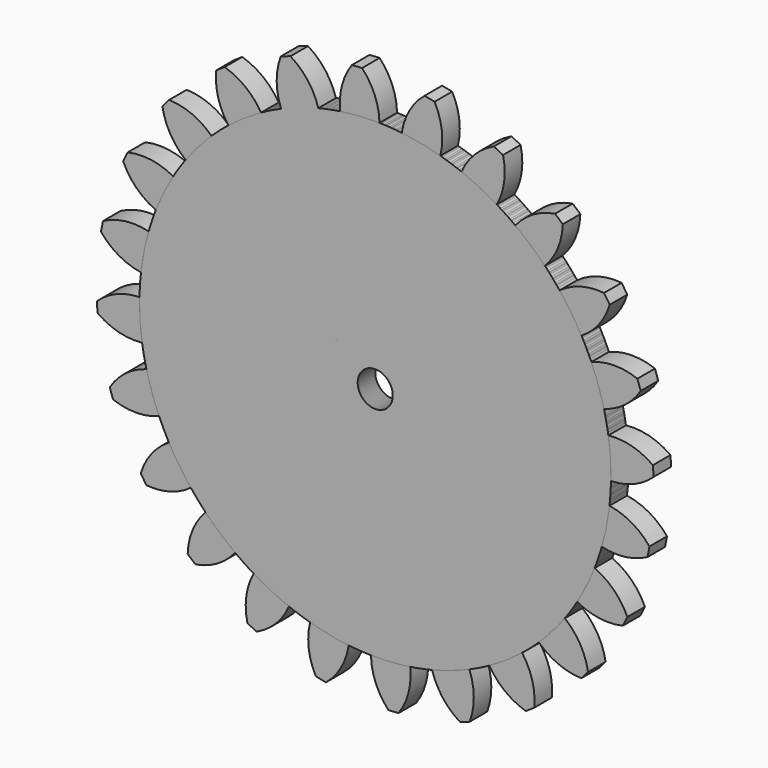
from build123d import *

# Parameters (mm, degrees)
F0_R     = 4
F1_DEPTH = 5
F2_COUNT = 24


with BuildPart() as f1:
    # F0 (on Front) → F1 (new body)
    with BuildSketch(Plane.XZ):
        with BuildLine():
            ThreePointArc((-7.975719, 53.125641), (-35.053404, -40.708779), (53.721, 0))
            ThreePointArc((53.721, 0), (38.329016, 37.640833), (0.973198, 53.712184))
            ThreePointArc((0.973198, 53.712184), (-3.513522, 53.605979), (-7.975719, 53.125641))
        make_face()
        Circle(F0_R, mode=Mode.SUBTRACT)
        with BuildLine():
            ThreePointArc((-7.975719, 53.125641), (-3.513522, 53.605979), (0.973198, 53.712184))
            ThreePointArc((0.973198, 53.712184), (-0.105084, 58.939079), (-2.989233, 63.429603))
            ThreePointArc((-2.989233, 63.429603), (-4.152581, 63.356138), (-5.315565, 63.277127))
            ThreePointArc((-5.315565, 63.277127), (-7.588909, 58.448563), (-7.975719, 53.125641))
        make_face()
    extrude(amount=F1_DEPTH)


with BuildPart() as f2_1:
    # F2: instance of F1
    add(f1.part.rotate(Axis((0, 0, 0), (0, 1, 0)), 1 * 360 / F2_COUNT))


with BuildPart() as f2_2:
    # F2: instance of F1
    add(f1.part.rotate(Axis((0, 0, 0), (0, 1, 0)), 2 * 360 / F2_COUNT))


with BuildPart() as f2_3:
    # F2: instance of F1
    add(f1.part.rotate(Axis((0, 0, 0), (0, 1, 0)), 3 * 360 / F2_COUNT))


with BuildPart() as f2_4:
    # F2: instance of F1
    add(f1.part.rotate(Axis((0, 0, 0), (0, 1, 0)), 4 * 360 / F2_COUNT))


with BuildPart() as f2_5:
    # F2: instance of F1
    add(f1.part.rotate(Axis((0, 0, 0), (0, 1, 0)), 5 * 360 / F2_COUNT))


with BuildPart() as f2_6:
    # F2: instance of F1
    add(f1.part.rotate(Axis((0, 0, 0), (0, 1, 0)), 6 * 360 / F2_COUNT))


with BuildPart() as f2_7:
    # F2: instance of F1
    add(f1.part.rotate(Axis((0, 0, 0), (0, 1, 0)), 7 * 360 / F2_COUNT))


with BuildPart() as f2_8:
    # F2: instance of F1
    add(f1.part.rotate(Axis((0, 0, 0), (0, 1, 0)), 8 * 360 / F2_COUNT))


with BuildPart() as f2_9:
    # F2: instance of F1
    add(f1.part.rotate(Axis((0, 0, 0), (0, 1, 0)), 9 * 360 / F2_COUNT))


with BuildPart() as f2_10:
    # F2: instance of F1
    add(f1.part.rotate(Axis((0, 0, 0), (0, 1, 0)), 10 * 360 / F2_COUNT))


with BuildPart() as f2_11:
    # F2: instance of F1
    add(f1.part.rotate(Axis((0, 0, 0), (0, 1, 0)), 11 * 360 / F2_COUNT))


with BuildPart() as f2_12:
    # F2: instance of F1
    add(f1.part.rotate(Axis((0, 0, 0), (0, 1, 0)), 12 * 360 / F2_COUNT))


with BuildPart() as f2_13:
    # F2: instance of F1
    add(f1.part.rotate(Axis((0, 0, 0), (0, 1, 0)), 13 * 360 / F2_COUNT))


with BuildPart() as f2_14:
    # F2: instance of F1
    add(f1.part.rotate(Axis((0, 0, 0), (0, 1, 0)), 14 * 360 / F2_COUNT))


with BuildPart() as f2_15:
    # F2: instance of F1
    add(f1.part.rotate(Axis((0, 0, 0), (0, 1, 0)), 15 * 360 / F2_COUNT))


with BuildPart() as f2_16:
    # F2: instance of F1
    add(f1.part.rotate(Axis((0, 0, 0), (0, 1, 0)), 16 * 360 / F2_COUNT))


with BuildPart() as f2_17:
    # F2: instance of F1
    add(f1.part.rotate(Axis((0, 0, 0), (0, 1, 0)), 17 * 360 / F2_COUNT))


with BuildPart() as f2_18:
    # F2: instance of F1
    add(f1.part.rotate(Axis((0, 0, 0), (0, 1, 0)), 18 * 360 / F2_COUNT))


with BuildPart() as f2_19:
    # F2: instance of F1
    add(f1.part.rotate(Axis((0, 0, 0), (0, 1, 0)), 19 * 360 / F2_COUNT))


with BuildPart() as f2_20:
    # F2: instance of F1
    add(f1.part.rotate(Axis((0, 0, 0), (0, 1, 0)), 20 * 360 / F2_COUNT))


with BuildPart() as f2_21:
    # F2: instance of F1
    add(f1.part.rotate(Axis((0, 0, 0), (0, 1, 0)), 21 * 360 / F2_COUNT))


with BuildPart() as f2_22:
    # F2: instance of F1
    add(f1.part.rotate(Axis((0, 0, 0), (0, 1, 0)), 22 * 360 / F2_COUNT))


with BuildPart() as f2_23:
    # F2: instance of F1
    add(f1.part.rotate(Axis((0, 0, 0), (0, 1, 0)), 23 * 360 / F2_COUNT))


solid = Compound([f1.part, f2_1.part, f2_2.part, f2_3.part, f2_4.part, f2_5.part, f2_6.part, f2_7.part, f2_8.part, f2_9.part, f2_10.part, f2_11.part, f2_12.part, f2_13.part, f2_14.part, f2_15.part, f2_16.part, f2_17.part, f2_18.part, f2_19.part, f2_20.part, f2_21.part, f2_22.part, f2_23.part])
